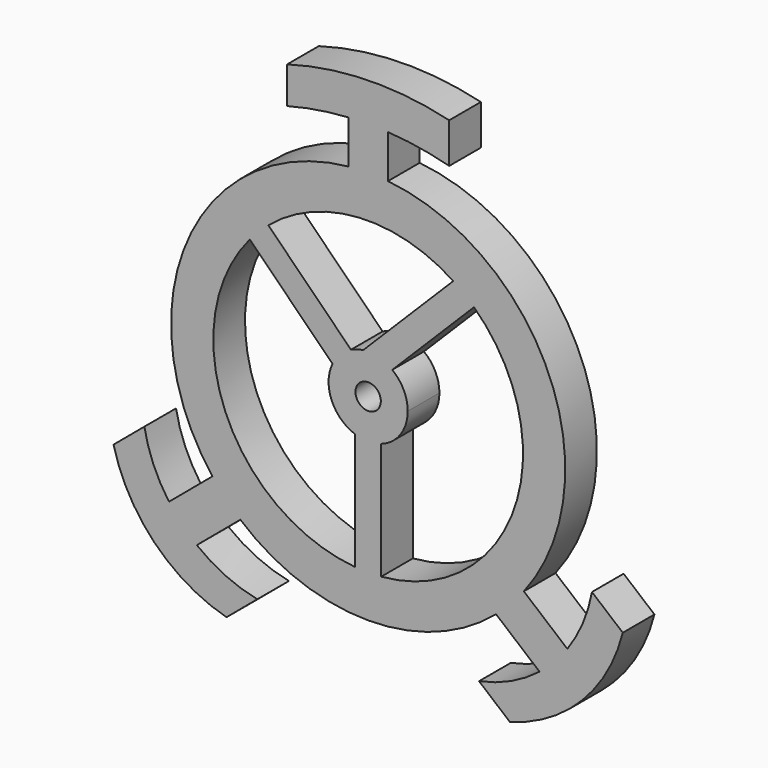
from build123d import *

# Parameters (mm, degrees)
F0_R     = 1.6
F1_DEPTH = 5


with BuildPart() as f1:
    # F0 (on Front) → F1 (new body)
    with BuildSketch(Plane.XZ):
        with BuildLine():
            ThreePointArc((-14.003258, -27.093039), (-18.030163, -25.772686), (-21.641434, -23.555026))
            ThreePointArc((-21.641434, -23.555026), (-23.529191, -21.838365), (-25.157726, -19.874076))
            ThreePointArc((-25.157726, -19.874076), (-27.119608, -16.377356), (-28.266408, -12.535366))
            Line((-28.266408, -12.535366), (-32.157913, -15.800727))
            ThreePointArc((-32.157913, -15.800727), (-26.997652, -25.010994), (-17.894764, -30.3584))
            Line((-17.894764, -30.3584), (-14.003258, -27.093039))
        make_face()
        with BuildLine():
            ThreePointArc((25.157726, -19.874076), (23.529191, -21.838365), (21.641434, -23.555026))
            ThreePointArc((21.641434, -23.555026), (18.030163, -25.772686), (14.003258, -27.093039))
            Line((14.003258, -27.093039), (17.894764, -30.3584))
            ThreePointArc((17.894764, -30.3584), (26.997652, -25.010994), (32.157913, -15.800727))
            Line((32.157913, -15.800727), (28.266408, -12.535366))
            ThreePointArc((28.266408, -12.535366), (27.119608, -16.377356), (25.157726, -19.874076))
        make_face()
        with BuildLine():
            ThreePointArc((-10.2375, 28.97087), (-6.399543, 29.787892), (-2.5, 30.224936))
            ThreePointArc((-2.5, 30.224936), (0, 30.303137), (2.5, 30.224936))
            ThreePointArc((2.5, 30.224936), (6.399543, 29.787892), (10.2375, 28.97087))
            Line((10.2375, 28.97087), (10.2375, 34.05087))
            ThreePointArc((10.2375, 34.05087), (-0.028916, 35.161317), (-10.2375, 33.606581))
            Line((-10.2375, 33.606581), (-10.2375, 28.97087))
        make_face()
        with BuildLine():
            Line((-21.641434, -23.555026), (-16.146787, -18.94447))
            ThreePointArc((-16.146787, -18.94447), (0, -24.892), (16.146787, -18.94447))
            Line((16.146787, -18.94447), (21.641434, -23.555026))
            ThreePointArc((21.641434, -23.555026), (23.529191, -21.838365), (25.157726, -19.874076))
            Line((25.157726, -19.874076), (19.663078, -15.263519))
            ThreePointArc((19.663078, -15.263519), (22.877804, 9.809065), (2.5, 24.766139))
            Line((2.5, 24.766139), (2.5, 30.224936))
            ThreePointArc((2.5, 30.224936), (0, 30.303137), (-2.5, 30.224936))
            Line((-2.5, 30.224936), (-2.5, 24.766139))
            ThreePointArc((-2.5, 24.766139), (-22.877804, 9.809065), (-19.663078, -15.263519))
            Line((-19.663078, -15.263519), (-25.157726, -19.874076))
            ThreePointArc((-25.157726, -19.874076), (-23.529191, -21.838365), (-21.641434, -23.555026))
        make_face()
        with BuildLine():
            ThreePointArc((-1.651, -19.48819), (-18.069236, -7.484523), (-14.947665, 12.612798))
            Line((-14.947665, 12.612798), (-4.504663, 2.169796))
            ThreePointArc((-4.504663, 2.169796), (-3.535534, 3.535534), (-2.169796, 4.504663))
            Line((-2.169796, 4.504663), (-12.612798, 14.947665))
            ThreePointArc((-12.612798, 14.947665), (-1.162026, 19.523449), (10.750677, 16.338247))
            Line((10.750677, 16.338247), (-0.627044, 4.960526))
            ThreePointArc((-0.627044, 4.960526), (1.308314, 4.825797), (3.046705, 3.964541))
            Line((3.046705, 3.964541), (13.36306, 14.280896))
            ThreePointArc((13.36306, 14.280896), (18.478184, -6.408749), (1.651, -19.48819))
            Line((1.651, -19.48819), (1.651, -4.719555))
            ThreePointArc((1.651, -4.719555), (0, -5), (-1.651, -4.719555))
            Line((-1.651, -4.719555), (-1.651, -19.48819))
        make_face(mode=Mode.SUBTRACT)
        with BuildLine():
            Line((-21.641434, -23.555026), (-16.146787, -18.94447))
            ThreePointArc((-16.146787, -18.94447), (0, -24.892), (16.146787, -18.94447))
            Line((16.146787, -18.94447), (21.641434, -23.555026))
            ThreePointArc((21.641434, -23.555026), (23.529191, -21.838365), (25.157726, -19.874076))
            Line((25.157726, -19.874076), (19.663078, -15.263519))
            ThreePointArc((19.663078, -15.263519), (22.877804, 9.809065), (2.5, 24.766139))
            Line((2.5, 24.766139), (2.5, 30.224936))
            ThreePointArc((2.5, 30.224936), (0, 30.303137), (-2.5, 30.224936))
            Line((-2.5, 30.224936), (-2.5, 24.766139))
            ThreePointArc((-2.5, 24.766139), (-22.877804, 9.809065), (-19.663078, -15.263519))
            Line((-19.663078, -15.263519), (-25.157726, -19.874076))
            ThreePointArc((-25.157726, -19.874076), (-23.529191, -21.838365), (-21.641434, -23.555026))
        make_face()
        with BuildLine():
            ThreePointArc((-1.651, -19.48819), (-18.069236, -7.484523), (-14.947665, 12.612798))
            Line((-14.947665, 12.612798), (-4.504663, 2.169796))
            ThreePointArc((-4.504663, 2.169796), (-3.535534, 3.535534), (-2.169796, 4.504663))
            Line((-2.169796, 4.504663), (-12.612798, 14.947665))
            ThreePointArc((-12.612798, 14.947665), (-1.162026, 19.523449), (10.750677, 16.338247))
            Line((10.750677, 16.338247), (-0.627044, 4.960526))
            ThreePointArc((-0.627044, 4.960526), (1.308314, 4.825797), (3.046705, 3.964541))
            Line((3.046705, 3.964541), (13.36306, 14.280896))
            ThreePointArc((13.36306, 14.280896), (18.478184, -6.408749), (1.651, -19.48819))
            Line((1.651, -19.48819), (1.651, -4.719555))
            ThreePointArc((1.651, -4.719555), (0, -5), (-1.651, -4.719555))
            Line((-1.651, -4.719555), (-1.651, -19.48819))
        make_face(mode=Mode.SUBTRACT)
        with BuildLine():
            Line((-21.641434, -23.555026), (-16.146787, -18.94447))
            ThreePointArc((-16.146787, -18.94447), (0, -24.892), (16.146787, -18.94447))
            Line((16.146787, -18.94447), (21.641434, -23.555026))
            ThreePointArc((21.641434, -23.555026), (23.529191, -21.838365), (25.157726, -19.874076))
            Line((25.157726, -19.874076), (19.663078, -15.263519))
            ThreePointArc((19.663078, -15.263519), (22.877804, 9.809065), (2.5, 24.766139))
            Line((2.5, 24.766139), (2.5, 30.224936))
            ThreePointArc((2.5, 30.224936), (0, 30.303137), (-2.5, 30.224936))
            Line((-2.5, 30.224936), (-2.5, 24.766139))
            ThreePointArc((-2.5, 24.766139), (-22.877804, 9.809065), (-19.663078, -15.263519))
            Line((-19.663078, -15.263519), (-25.157726, -19.874076))
            ThreePointArc((-25.157726, -19.874076), (-23.529191, -21.838365), (-21.641434, -23.555026))
        make_face()
        with BuildLine():
            ThreePointArc((-1.651, -19.48819), (-18.069236, -7.484523), (-14.947665, 12.612798))
            Line((-14.947665, 12.612798), (-4.504663, 2.169796))
            ThreePointArc((-4.504663, 2.169796), (-3.535534, 3.535534), (-2.169796, 4.504663))
            Line((-2.169796, 4.504663), (-12.612798, 14.947665))
            ThreePointArc((-12.612798, 14.947665), (-1.162026, 19.523449), (10.750677, 16.338247))
            Line((10.750677, 16.338247), (-0.627044, 4.960526))
            ThreePointArc((-0.627044, 4.960526), (1.308314, 4.825797), (3.046705, 3.964541))
            Line((3.046705, 3.964541), (13.36306, 14.280896))
            ThreePointArc((13.36306, 14.280896), (18.478184, -6.408749), (1.651, -19.48819))
            Line((1.651, -19.48819), (1.651, -4.719555))
            ThreePointArc((1.651, -4.719555), (0, -5), (-1.651, -4.719555))
            Line((-1.651, -4.719555), (-1.651, -19.48819))
        make_face(mode=Mode.SUBTRACT)
        with BuildLine():
            Line((-21.641434, -23.555026), (-16.146787, -18.94447))
            ThreePointArc((-16.146787, -18.94447), (0, -24.892), (16.146787, -18.94447))
            Line((16.146787, -18.94447), (21.641434, -23.555026))
            ThreePointArc((21.641434, -23.555026), (23.529191, -21.838365), (25.157726, -19.874076))
            Line((25.157726, -19.874076), (19.663078, -15.263519))
            ThreePointArc((19.663078, -15.263519), (22.877804, 9.809065), (2.5, 24.766139))
            Line((2.5, 24.766139), (2.5, 30.224936))
            ThreePointArc((2.5, 30.224936), (0, 30.303137), (-2.5, 30.224936))
            Line((-2.5, 30.224936), (-2.5, 24.766139))
            ThreePointArc((-2.5, 24.766139), (-22.877804, 9.809065), (-19.663078, -15.263519))
            Line((-19.663078, -15.263519), (-25.157726, -19.874076))
            ThreePointArc((-25.157726, -19.874076), (-23.529191, -21.838365), (-21.641434, -23.555026))
        make_face()
        with BuildLine():
            ThreePointArc((-1.651, -19.48819), (-18.069236, -7.484523), (-14.947665, 12.612798))
            Line((-14.947665, 12.612798), (-4.504663, 2.169796))
            ThreePointArc((-4.504663, 2.169796), (-3.535534, 3.535534), (-2.169796, 4.504663))
            Line((-2.169796, 4.504663), (-12.612798, 14.947665))
            ThreePointArc((-12.612798, 14.947665), (-1.162026, 19.523449), (10.750677, 16.338247))
            Line((10.750677, 16.338247), (-0.627044, 4.960526))
            ThreePointArc((-0.627044, 4.960526), (1.308314, 4.825797), (3.046705, 3.964541))
            Line((3.046705, 3.964541), (13.36306, 14.280896))
            ThreePointArc((13.36306, 14.280896), (18.478184, -6.408749), (1.651, -19.48819))
            Line((1.651, -19.48819), (1.651, -4.719555))
            ThreePointArc((1.651, -4.719555), (0, -5), (-1.651, -4.719555))
            Line((-1.651, -4.719555), (-1.651, -19.48819))
        make_face(mode=Mode.SUBTRACT)
        with BuildLine():
            ThreePointArc((-2.169796, 4.504663), (-3.535534, 3.535534), (-4.504663, 2.169796))
            ThreePointArc((-4.504663, 2.169796), (-4.619398, -1.913417), (-1.651, -4.719555))
            ThreePointArc((-1.651, -4.719555), (0, -5), (1.651, -4.719555))
            ThreePointArc((1.651, -4.719555), (4.077683, -2.893527), (5, 0))
            ThreePointArc((5, 0), (4.485171, 2.209805), (3.046705, 3.964541))
            ThreePointArc((3.046705, 3.964541), (1.308314, 4.825797), (-0.627044, 4.960526))
            ThreePointArc((-0.627044, 4.960526), (-1.416874, 4.795046), (-2.169796, 4.504663))
        make_face()
        Circle(F0_R, mode=Mode.SUBTRACT)
    extrude(amount=F1_DEPTH)


solid = f1.part
